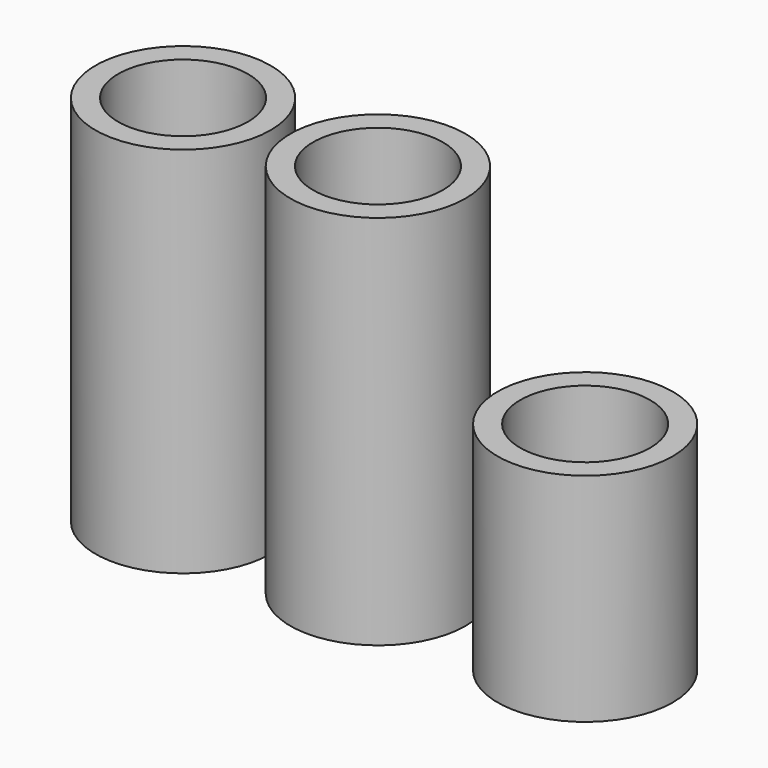
from build123d import *

# Parameters (mm, degrees)
F0_R     = 10.668
F0_R_2   = 7.8994
F1_DEPTH = 45.82
F2_R     = 10.668
F2_R_2   = 7.8994
F3_DEPTH = 45.42
F4_R     = 10.668
F4_R_2   = 7.8994
F5_DEPTH = 26.39


with BuildPart() as f1:
    # F0 (on Top) → F1 (new body)
    with BuildSketch(Plane.XY):
        Circle(F0_R)
        Circle(F0_R_2, mode=Mode.SUBTRACT)
    extrude(amount=F1_DEPTH)


with BuildPart() as f3:
    # F2 (on Top) → F3 (new body)
    with BuildSketch(Plane.XY):
        with Locations((-23.731971, 0)):
            Circle(F2_R)
        with Locations((-23.731971, 0)):
            Circle(F2_R_2, mode=Mode.SUBTRACT)
    extrude(amount=F3_DEPTH)


with BuildPart() as f5:
    # F4 (on Top) → F5 (new body)
    with BuildSketch(Plane.XY):
        with Locations((25.232755, 0)):
            Circle(F4_R)
        with Locations((25.232755, 0)):
            Circle(F4_R_2, mode=Mode.SUBTRACT)
    extrude(amount=F5_DEPTH)


solid = Compound([f1.part, f3.part, f5.part])
